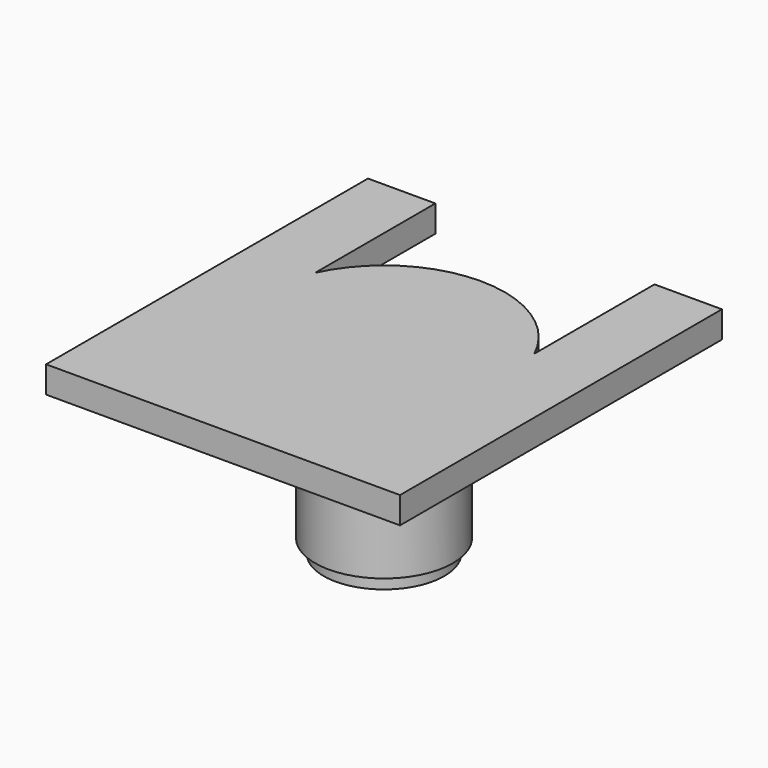
from build123d import *

# Parameters (mm, degrees)
F1_DEPTH = 2.413
F2_R     = 10.922
F3_DEPTH = 1.524
F4_R     = 6.223
F4_R_2   = 1.27
F5_DEPTH = 12.065
F6_R     = 5.461
F6_R_2   = 1.524
F7_DEPTH = 1.27


with BuildPart() as f1:
    # F0 (on Top) → F1 (new body)
    with BuildSketch(Plane.XY):
        with BuildLine():
            Line((-16.002, -18.188851), (16.002, -18.188851))
            Line((16.002, -18.188851), (16.002, 18.188851))
            Line((16.002, 18.188851), (9.906, 18.188851))
            Line((9.906, 18.188851), (9.906, 4.600136))
            ThreePointArc((9.906, 4.600136), (5.875687, 9.206866), (0, 10.922))
            ThreePointArc((0, 10.922), (-5.875687, 9.206866), (-9.906, 4.600136))
            Line((-9.906, 4.600136), (-9.906, 18.188851))
            Line((-9.906, 18.188851), (-16.002, 18.188851))
            Line((-16.002, 18.188851), (-16.002, -18.188851))
        make_face()
    extrude(amount=F1_DEPTH)

    # F2 (on face) → F3 (join)
    with BuildSketch(Plane(origin=(0, 0, 0), x_dir=(1, 0, 0), z_dir=(0, 0, -1))):
        Circle(F2_R)
    extrude(amount=F3_DEPTH)

    # F4 (on face) → F5 (join)
    with BuildSketch(Plane(origin=(0, 0, -1.524), x_dir=(1, 0, 0), z_dir=(0, 0, -1))):
        Circle(F4_R)
        Circle(F4_R_2, mode=Mode.SUBTRACT)
    extrude(amount=F5_DEPTH)

    # F6 (on face) → F7 (join)
    with BuildSketch(Plane(origin=(0, 0, -13.589), x_dir=(1, 0, 0), z_dir=(0, 0, -1))):
        Circle(F6_R)
        Circle(F6_R_2, mode=Mode.SUBTRACT)
    extrude(amount=F7_DEPTH)


solid = f1.part
